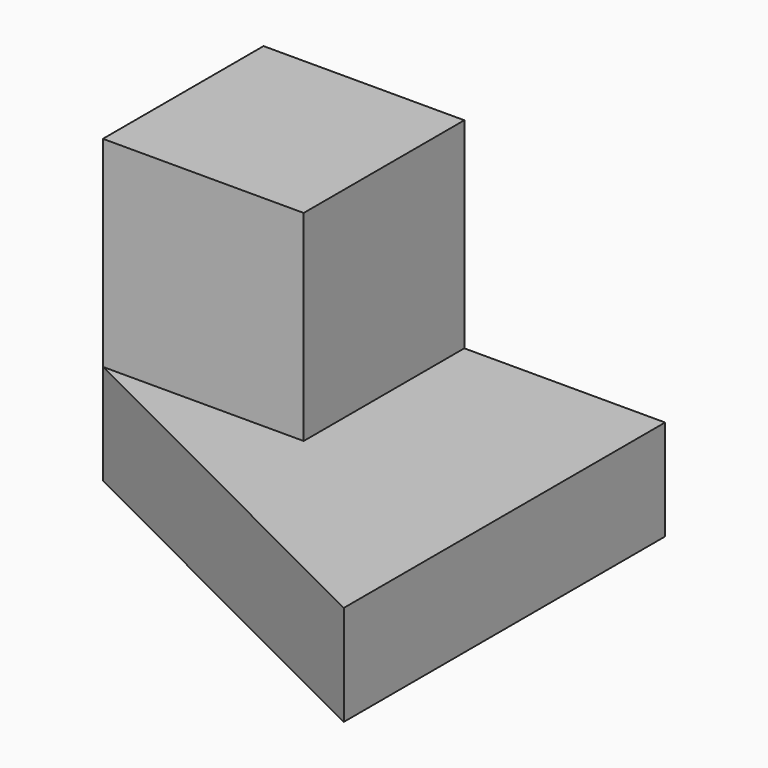
from build123d import *

# Parameters (mm, degrees)
F0_W     = 1016
F0_H     = 1016
F1_DEPTH = 762
F3_DEPTH = 508
F5_DEPTH = 254


with BuildPart() as f1:
    # F0 (on Top) → F1 (new body)
    with BuildSketch(Plane.XY):
        with Locations((508, -508)):
            Rectangle(F0_W, F0_H)
    extrude(amount=F1_DEPTH)

    # F2 (on face) → F3 (cut)
    with BuildSketch(Plane.XY.offset(762)):
        Polygon((1016, 0), (508, 0), (508, -508), (0, -508), (0, -1016), (1016, -1016), align=None)
    extrude(amount=-F3_DEPTH, mode=Mode.SUBTRACT)

    # F4 (on face) → F5 (cut)
    with BuildSketch(Plane.XY.offset(254)):
        Polygon((1016, -1016), (0, -508), (0, -1016), align=None)
    extrude(amount=-F5_DEPTH, mode=Mode.SUBTRACT)


solid = f1.part
